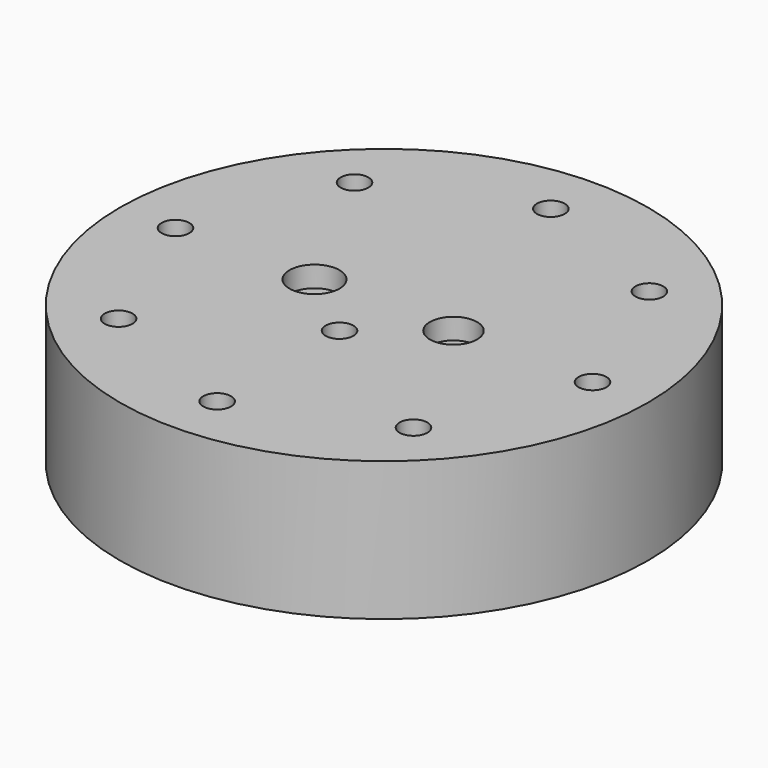
from build123d import *

# Parameters (mm, degrees)
CYLINDER003_R     = 1
CYLINDER003_DEPTH = 10
ARRAY_COUNT       = 8
CYLINDER002_R     = 1.8
CYLINDER002_DEPTH = 1.5
CYLINDER001_R     = 1.7
CYLINDER001_DEPTH = 1.5
CYLINDER004_R     = 1
CYLINDER004_DEPTH = 10
CYLINDER_R        = 19
CYLINDER_DEPTH    = 10


with BuildPart() as array:
    # Cylinder003 → Cylinder003 (new body)
    with BuildSketch(Plane(origin=(-15, 0, 0), x_dir=(1, 0, 0), z_dir=(0, 0, 1))):
        Circle(CYLINDER003_R)
    extrude(amount=CYLINDER003_DEPTH)

    # Array: Array ×8 about axis
    array_axis = Axis((0, 0, 0), (0, 0, 1))


with BuildPart() as array_1:
    add(array.part)
    for i in range(1, ARRAY_COUNT):
        add(array.part.rotate(array_axis, i * 360 / ARRAY_COUNT))


with BuildPart() as recess1:
    # Cylinder002 → Cylinder002 (new body)
    with BuildSketch(Plane(origin=(-5, 0, 8.5), x_dir=(1, 0, 0), z_dir=(0, 0, 1))):
        Circle(CYLINDER002_R)
    extrude(amount=CYLINDER002_DEPTH)


with BuildPart() as recess2:
    # Cylinder001 → Cylinder001 (new body)
    with BuildSketch(Plane(origin=(5, 0, 8.5), x_dir=(1, 0, 0), z_dir=(0, 0, 1))):
        Circle(CYLINDER001_R)
    extrude(amount=CYLINDER001_DEPTH)


with BuildPart() as fusion:
    # Cylinder004 → Cylinder004 (new body)
    with BuildSketch(Plane(origin=(0, -4, 0), x_dir=(1, 0, 0), z_dir=(0, 0, 1))):
        Circle(CYLINDER004_R)
    extrude(amount=CYLINDER004_DEPTH)

    # Fusion: union Array, Recess1, Recess2
    add(array_1.part)
    add(recess1.part)
    add(recess2.part)


with BuildPart() as cut:
    # Cylinder → Cylinder (new body)
    with BuildSketch(Plane.XY):
        Circle(CYLINDER_R)
    extrude(amount=CYLINDER_DEPTH)

    # Cut: cut Fusion
    add(fusion.part, mode=Mode.SUBTRACT)


solid = cut.part
